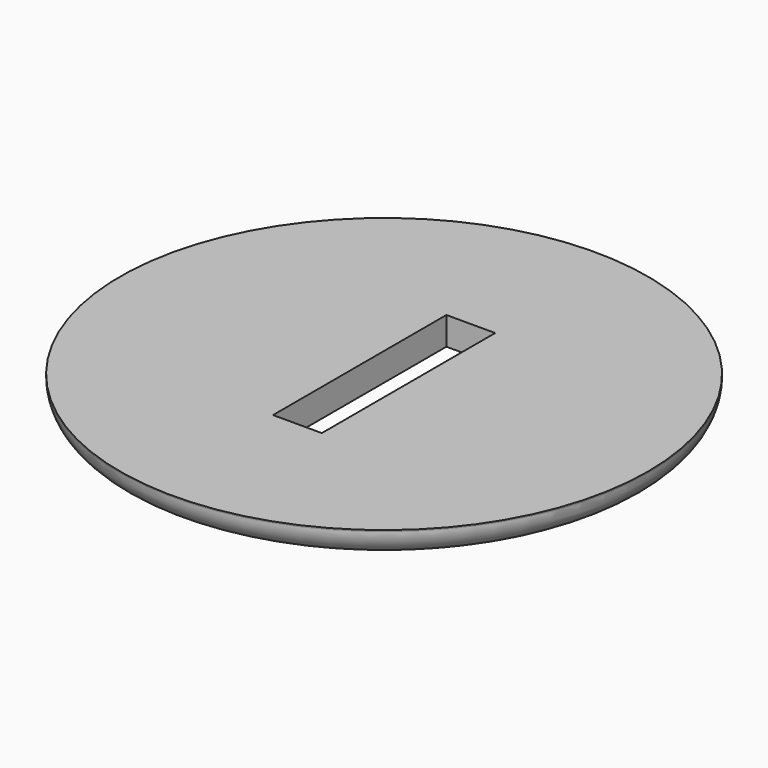
from build123d import *

# Parameters (mm, degrees)
F0_R     = 29.75
F2_DEPTH = 3.15
F1_W     = 5.5
F1_H     = 24.426396
F3_DEPTH = 3.15
F4_R     = 3


with BuildPart() as f2:
    # F0 (on Top) → F2 (new body)
    with BuildSketch(Plane.XY):
        Circle(F0_R)
    extrude(amount=F2_DEPTH)

    # F1 (on Top) → F3 (cut)
    with BuildSketch(Plane.XY):
        Rectangle(F1_W, F1_H)
    extrude(amount=F3_DEPTH, mode=Mode.SUBTRACT)

    # F4
    f4_edges = [f2.edges().sort_by_distance(p)[0] for p in [
        (-29.75, 0, 0),
    ]]
    fillet(f4_edges, radius=F4_R)


solid = f2.part
